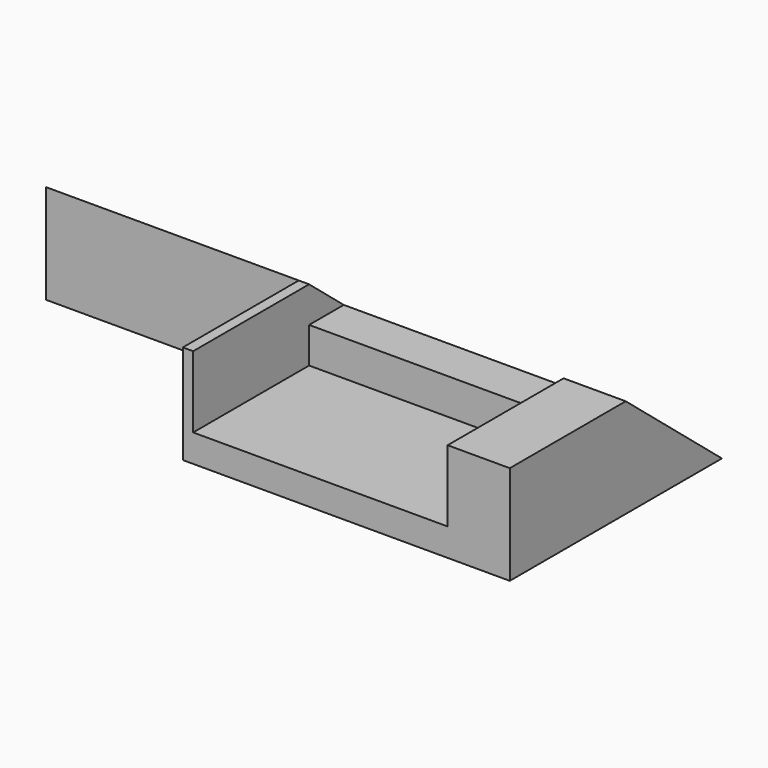
from build123d import *

# Parameters (mm, degrees)
F0_W     = 28.655802
F0_H     = 8.69454
F1_DEPTH = 12.7
F2_W     = 22.303285
F2_H     = 6.268458
F3_DEPTH = 50.8
F5_DEPTH = 50.8
F6_W     = 22.303285
F6_H     = 3.134229
F7_DEPTH = 25.4


with BuildPart() as f1:
    # F0 (on Front) → F1 (new body)
    with BuildSketch(Plane.XZ):
        Rectangle(F0_W, F0_H)
    extrude(amount=-F1_DEPTH)

    # F2 (on face) → F3 (cut)
    with BuildSketch(Plane.XZ):
        with Locations((-2.270672, 1.213041)):
            Rectangle(F2_W, F2_H)
    extrude(amount=-F3_DEPTH, mode=Mode.SUBTRACT)

    # F4 (on face) → F5 (join)
    with BuildSketch(Plane.YZ.offset(14.327901)):
        Polygon((12.7, 4.34727), (12.7, -4.34727), (23.239153, -4.34727), align=None)
    extrude(amount=-F5_DEPTH)

    # F6 (on face) → F7 (cut)
    with BuildSketch(Plane.XZ.offset(-12.7)):
        with Locations((-2.270672, 2.780156)):
            Rectangle(F6_W, F6_H)
    extrude(amount=-F7_DEPTH, mode=Mode.SUBTRACT)


solid = f1.part
